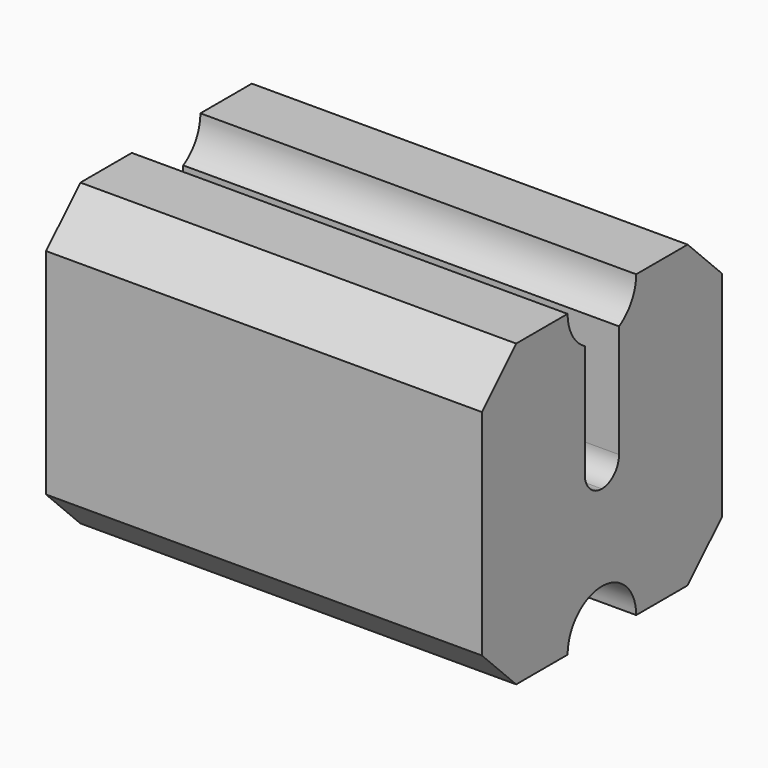
from build123d import *


with BuildPart() as f2:
    # F2: sweep along a path in F1
    with BuildLine(Plane.XZ) as f2_path:
        Line((0, 0), (-508.3263516426, 0))
    # F0 (on Right) → F2 (sweep)
    with BuildSketch(Plane.YZ):
        with BuildLine():
            Line((175, 125), (125, 175))
            Line((125, 175), (50, 175))
            ThreePointArc((50, 175), (43.3012701892, 150), (25, 131.6987298108))
            Line((25, 131.6987298108), (25, 0))
            Line((25, 0), (25, -131.6987298108))
            ThreePointArc((25, -131.6987298108), (43.3012701892, -150), (50, -175))
            Line((50, -175), (125, -175))
            Line((125, -175), (175, -125))
            Line((175, -125), (175, 125))
        make_face()
        with BuildLine():
            Line((25, -131.6987298108), (25, 0))
            ThreePointArc((25, 0), (17.6776695297, -17.6776695297), (0, -25))
            ThreePointArc((0, -25), (-17.6776695297, -17.6776695297), (-25, 0))
            Line((-25, 0), (-25, -131.6987298108))
            ThreePointArc((-25, -131.6987298108), (0, -125), (25, -131.6987298108))
        make_face()
        with BuildLine():
            Line((-25, 0), (-25, 131.6987298108))
            ThreePointArc((-25, 131.6987298108), (-43.3012701892, 150), (-50, 175))
            Line((-50, 175), (-125, 175))
            Line((-125, 175), (-175, 125))
            Line((-175, 125), (-175, -125))
            Line((-175, -125), (-125, -175))
            Line((-125, -175), (-50, -175))
            ThreePointArc((-50, -175), (-43.3012701892, -150), (-25, -131.6987298108))
            Line((-25, -131.6987298108), (-25, 0))
        make_face()
    sweep(path=f2_path.line)


solid = f2.part
